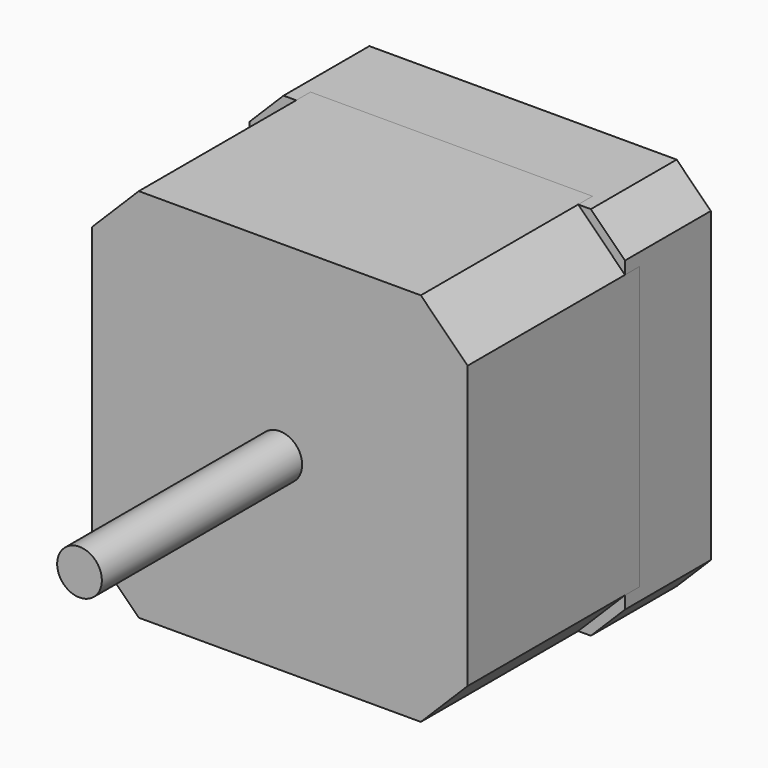
from build123d import *

# Parameters (mm, degrees)
F0_R          = 1.5
F0_R_2        = 13.5
F0_R_3        = 11
F0_R_4        = 4
F0_R_5        = 2.5
F1_DEPTH      = 12
F2_DEPTH      = 1
F3_DEPTH      = 1
F4_DEPTH      = 20
F5_R          = 2.5
F6_DEPTH      = 2
F7_DEPTH      = 22
F7_DEPTH_BACK = 2
F8_DEPTH      = 12
F9_DEPTH      = 1
F10_DEPTH     = 2
F11_DEPTH     = 62


with BuildPart() as f1:
    # F0 (on Front) → F1 (new body)
    with BuildSketch(Plane.XZ):
        Polygon((17.1837661841, 21), (-17.1837661841, 21), (-21, 17.1837661841), (-21, -17.1837661841), (-17.1837661841, -21), (17.1837661841, -21), (21, -17.1837661841), (21, 17.1837661841), align=None)
        with Locations((-15.5, -15.5)):
            Circle(F0_R, mode=Mode.SUBTRACT)
        with Locations((15.5, -15.5)):
            Circle(F0_R, mode=Mode.SUBTRACT)
        with Locations((-15.5, 15.5)):
            Circle(F0_R, mode=Mode.SUBTRACT)
        Circle(F0_R_2, mode=Mode.SUBTRACT)
        with Locations((15.5, 15.5)):
            Circle(F0_R, mode=Mode.SUBTRACT)
        Circle(F0_R_2)
        Circle(F0_R_3, mode=Mode.SUBTRACT)
        Circle(F0_R_3)
        Circle(F0_R_4, mode=Mode.SUBTRACT)
        Circle(F0_R_4)
        Circle(F0_R_5, mode=Mode.SUBTRACT)
        Circle(F0_R_5)
    extrude(amount=F1_DEPTH)

    # F0 (on Front) → F2 (cut)
    with BuildSketch(Plane.XZ):
        Circle(F0_R_2)
        Circle(F0_R_3, mode=Mode.SUBTRACT)
        Circle(F0_R_4)
        Circle(F0_R_5, mode=Mode.SUBTRACT)
    extrude(amount=F2_DEPTH, mode=Mode.SUBTRACT)

    # F0 (on Front) → F3 (join)
    with BuildSketch(Plane.XZ):
        Circle(F0_R_3)
        Circle(F0_R_4, mode=Mode.SUBTRACT)
    extrude(amount=-F3_DEPTH)

    # F0 (on Front) → F4 (cut)
    with BuildSketch(Plane.XZ):
        Circle(F0_R_5)
    extrude(amount=F4_DEPTH, mode=Mode.SUBTRACT)

    # F5 (on face) → F6 (cut)
    with BuildSketch(Plane.XZ.offset(12)):
        Polygon((21, 15.7695526217), (15.7695526217, 21), (-15.7695526217, 21), (-21, 15.7695526217), (-21, -15.7695526217), (-15.7695526217, -21), (15.7695526217, -21), (21, -15.7695526217), align=None)
        Circle(F5_R, mode=Mode.SUBTRACT)
    extrude(amount=-F6_DEPTH, mode=Mode.SUBTRACT)


with BuildPart() as f7:
    # F5 (on face) → F7 (new body, two sides)
    with BuildSketch(Plane.XZ.offset(12)) as f7_sk:
        Polygon((21, 15.7695526217), (15.7695526217, 21), (-15.7695526217, 21), (-21, 15.7695526217), (-21, -15.7695526217), (-15.7695526217, -21), (15.7695526217, -21), (21, -15.7695526217), align=None)
        Circle(F5_R, mode=Mode.SUBTRACT)
    extrude(amount=F7_DEPTH)
    extrude(f7_sk.sketch, amount=-F7_DEPTH_BACK)


with BuildPart() as f8:
    # F0 (on Front) → F8 (new body)
    with BuildSketch(Plane.XZ):
        Polygon((17.1837661841, 21), (-17.1837661841, 21), (-21, 17.1837661841), (-21, -17.1837661841), (-17.1837661841, -21), (17.1837661841, -21), (21, -17.1837661841), (21, 17.1837661841), align=None)
        with Locations((-15.5, -15.5)):
            Circle(F0_R, mode=Mode.SUBTRACT)
        with Locations((15.5, -15.5)):
            Circle(F0_R, mode=Mode.SUBTRACT)
        with Locations((-15.5, 15.5)):
            Circle(F0_R, mode=Mode.SUBTRACT)
        Circle(F0_R_2, mode=Mode.SUBTRACT)
        with Locations((15.5, 15.5)):
            Circle(F0_R, mode=Mode.SUBTRACT)
        Circle(F0_R_2)
        Circle(F0_R_3, mode=Mode.SUBTRACT)
        Circle(F0_R_3)
        Circle(F0_R_4, mode=Mode.SUBTRACT)
        Circle(F0_R_4)
        Circle(F0_R_5, mode=Mode.SUBTRACT)
    extrude(amount=F8_DEPTH)

    # F0 (on Front) → F9 (cut)
    with BuildSketch(Plane.XZ):
        Circle(F0_R_3)
        Circle(F0_R_4, mode=Mode.SUBTRACT)
    extrude(amount=F9_DEPTH, mode=Mode.SUBTRACT)

    # F5 (on face) → F10 (cut)
    with BuildSketch(Plane.XZ.offset(12)):
        Polygon((21, 15.7695526217), (15.7695526217, 21), (-15.7695526217, 21), (-21, 15.7695526217), (-21, -15.7695526217), (-15.7695526217, -21), (15.7695526217, -21), (21, -15.7695526217), align=None)
        Circle(F5_R, mode=Mode.SUBTRACT)
    extrude(amount=-F10_DEPTH, mode=Mode.SUBTRACT)


with BuildPart() as f11:
    # F0 (on Front) → F11 (new body)
    with BuildSketch(Plane.XZ):
        Circle(F0_R_5)
    extrude(amount=F11_DEPTH)


solid = Compound([f1.part, f7.part, f8.part, f11.part])
